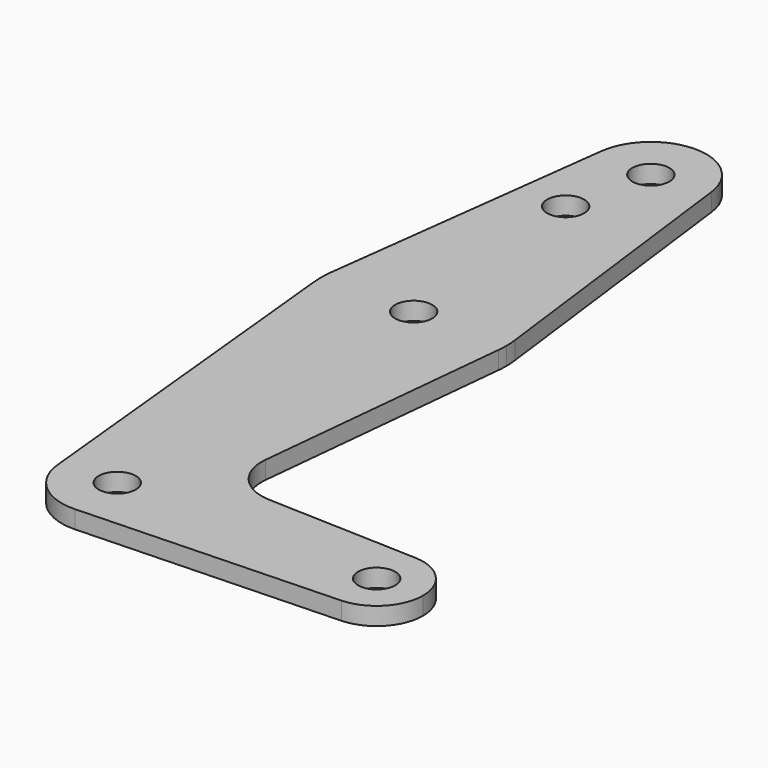
from build123d import *

# Parameters (mm, degrees)
F0_R     = 3.175
F1_DEPTH = 3.048


with BuildPart() as f1:
    # F0 (on Top) → F1 (new body)
    with BuildSketch(Plane.XY):
        with BuildLine():
            ThreePointArc((4.327311, -1.5875), (4.38698, -0.794747), (4.406886, 0))
            ThreePointArc((4.406886, 0), (4.375727, 0.994139), (4.282374, 1.984375))
            ThreePointArc((4.282374, 1.984375), (-11.468114, 15.875), (-27.218602, 1.984375))
            ThreePointArc((-27.218602, 1.984375), (-27.341858, 0.199705), (-27.26354, -1.5875))
            ThreePointArc((-27.26354, -1.5875), (-11.468114, -15.875), (4.327311, -1.5875))
        make_face()
        with Locations((-11.468114, 0)):
            Circle(F0_R, mode=Mode.SUBTRACT)
        with BuildLine():
            ThreePointArc((-27.218602, 1.984375), (-11.468114, 15.875), (4.282374, 1.984375))
            Line((4.282374, 1.984375), (-2.017821, 51.990625))
            ThreePointArc((-2.017821, 51.990625), (-1.961809, 51.396483), (-1.943114, 50.8))
            ThreePointArc((-1.943114, 50.8), (-12.064597, 41.293695), (-20.918407, 51.990625))
            Line((-20.918407, 51.990625), (-27.218602, 1.984375))
        make_face()
        with Locations((-14.643114, 36.5252)):
            Circle(F0_R, mode=Mode.SUBTRACT)
        with BuildLine():
            Line((-0.126928, -45.906618), (4.327311, -1.5875))
            ThreePointArc((4.327311, -1.5875), (-11.468114, -15.875), (-27.26354, -1.5875))
            Line((-27.26354, -1.5875), (-20.94537, -64.4525))
            ThreePointArc((-20.94537, -64.4525), (-11.944962, -53.986944), (-1.943114, -63.5))
            ThreePointArc((-1.943114, -63.5), (-4.613706, -70.113827), (-11.127936, -73.018923))
            Line((-11.127936, -73.018923), (33.265368, -71.432436))
            ThreePointArc((33.265368, -71.432436), (25.044386, -63.5), (33.265368, -55.567564))
            Line((33.265368, -55.567564), (7.499486, -54.646766))
            ThreePointArc((7.499486, -54.646766), (1.793086, -51.928641), (-0.126928, -45.906618))
        make_face()
        with BuildLine():
            ThreePointArc((-1.943114, 50.8), (-1.961809, 51.396483), (-2.017821, 51.990625))
            ThreePointArc((-2.017821, 51.990625), (-11.468114, 60.325), (-20.918407, 51.990625))
            ThreePointArc((-20.918407, 51.990625), (-12.064597, 41.293695), (-1.943114, 50.8))
        make_face()
        with Locations((-11.468114, 50.8)):
            Circle(F0_R, mode=Mode.SUBTRACT)
        with BuildLine():
            ThreePointArc((-1.943114, -63.5), (-11.944962, -53.986944), (-20.94537, -64.4525))
            ThreePointArc((-20.94537, -64.4525), (-17.730498, -70.67692), (-11.127936, -73.018923))
            ThreePointArc((-11.127936, -73.018923), (-4.613706, -70.113827), (-1.943114, -63.5))
        make_face()
        with Locations((-11.468114, -63.5)):
            Circle(F0_R, mode=Mode.SUBTRACT)
        with BuildLine():
            ThreePointArc((40.919386, -63.5), (38.693893, -57.988477), (33.265368, -55.567564))
            ThreePointArc((33.265368, -55.567564), (25.044386, -63.5), (33.265368, -71.432436))
            ThreePointArc((33.265368, -71.432436), (38.693893, -69.011523), (40.919386, -63.5))
        make_face()
        with Locations((32.981886, -63.5)):
            Circle(F0_R, mode=Mode.SUBTRACT)
    extrude(amount=F1_DEPTH)


solid = f1.part
